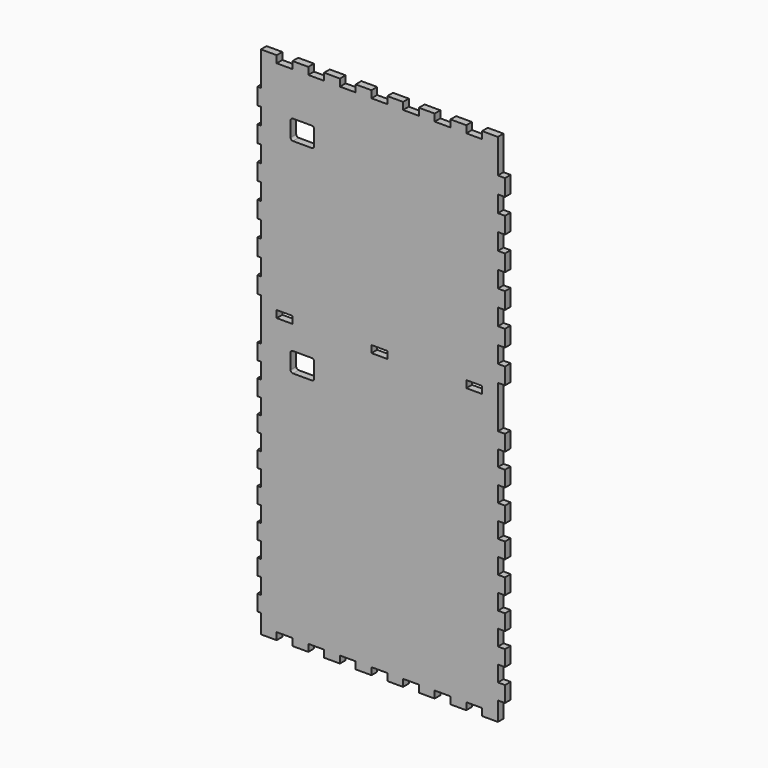
from build123d import *

# Parameters (mm, degrees)
F0_W     = 40
F0_H     = 18
F1_DEPTH = 18


with BuildPart() as f1:
    # F0 (on Front) → F1 (new body)
    with BuildSketch(Plane.XZ):
        Polygon((1349.999516, 1218), (1331.999516, 1218), (1331.999516, 1304), (1291.999516, 1304), (1291.999516, 1286), (1251.999516, 1286), (1251.999516, 1304), (1211.999516, 1304), (1211.999516, 1286), (1171.999516, 1286), (1171.999516, 1304), (1131.999516, 1304), (1131.999516, 1286), (1091.999516, 1286), (1091.999516, 1304), (1051.999516, 1304), (1051.999516, 1286), (1011.999516, 1286), (1011.999516, 1304), (971.999516, 1304), (971.999516, 1286), (931.999516, 1286), (931.999516, 1304), (891.999516, 1304), (891.999516, 1286), (851.999516, 1286), (851.999516, 1304), (811.999516, 1304), (811.999516, 1286), (771.999516, 1286), (771.999516, 1304), (731.999516, 1304), (731.999516, 1218), (722.999516, 1218), (722.999516, 1176), (731.999516, 1176), (731.999516, 1134), (722.999516, 1134), (722.999516, 1092), (731.999516, 1092), (731.999516, 1050), (722.999516, 1050), (722.999516, 1008), (731.999516, 1008), (731.999516, 966), (722.999516, 966), (722.999516, 924), (731.999516, 924), (731.999516, 882), (722.999516, 882), (722.999516, 840), (731.999516, 840), (731.999516, 798), (722.999516, 798), (722.999516, 756), (731.999516, 756), (731.999516, 648), (722.999516, 648), (722.999516, 608), (731.999516, 608), (731.999516, 568), (722.999516, 568), (722.999516, 528), (731.999516, 528), (731.999516, 488), (722.999516, 488), (722.999516, 448), (731.999516, 448), (731.999516, 408), (722.999516, 408), (722.999516, 368), (731.999516, 368), (731.999516, 328), (722.999516, 328), (722.999516, 288), (731.999516, 288), (731.999516, 248), (722.999516, 248), (722.999516, 208), (731.999516, 208), (731.999516, 168), (722.999516, 168), (722.999516, 128), (731.999516, 128), (731.999516, 88), (722.999516, 88), (722.999516, 48), (731.999516, 48), (731.999516, 0), (771.999516, 0), (771.999516, 18), (811.999516, 18), (811.999516, 0), (851.999516, 0), (851.999516, 18), (891.999516, 18), (891.999516, 0), (931.999516, 0), (931.999516, 18), (971.999516, 18), (971.999516, 0), (1011.999516, 0), (1011.999516, 18), (1051.999516, 18), (1051.999516, 0), (1091.999516, 0), (1091.999516, 18), (1131.999516, 18), (1131.999516, 0), (1171.999516, 0), (1171.999516, 18), (1211.999516, 18), (1211.999516, 0), (1251.999516, 0), (1251.999516, 18), (1291.999516, 18), (1291.999516, 0), (1331.999516, 0), (1331.999516, 48), (1349.999516, 48), (1349.999516, 88), (1331.999516, 88), (1331.999516, 128), (1349.999516, 128), (1349.999516, 168), (1331.999516, 168), (1331.999516, 208), (1349.999516, 208), (1349.999516, 248), (1331.999516, 248), (1331.999516, 288), (1349.999516, 288), (1349.999516, 328), (1331.999516, 328), (1331.999516, 368), (1349.999516, 368), (1349.999516, 408), (1331.999516, 408), (1331.999516, 448), (1349.999516, 448), (1349.999516, 488), (1331.999516, 488), (1331.999516, 528), (1349.999516, 528), (1349.999516, 568), (1331.999516, 568), (1331.999516, 608), (1349.999516, 608), (1349.999516, 648), (1331.999516, 648), (1331.999516, 756), (1349.999516, 756), (1349.999516, 798), (1331.999516, 798), (1331.999516, 840), (1349.999516, 840), (1349.999516, 882), (1331.999516, 882), (1331.999516, 924), (1349.999516, 924), (1349.999516, 966), (1331.999516, 966), (1331.999516, 1008), (1349.999516, 1008), (1349.999516, 1050), (1331.999516, 1050), (1331.999516, 1092), (1349.999516, 1092), (1349.999516, 1134), (1331.999516, 1134), (1331.999516, 1176), (1349.999516, 1176), align=None)
        with BuildLine():
            Line((806.999516, 614), (806.999516, 652))
            ThreePointArc((806.999516, 652), (808.756876, 656.242641), (812.999516, 658))
            Line((812.999516, 658), (860.999516, 658))
            ThreePointArc((860.999516, 658), (865.242157, 656.242641), (866.999516, 652))
            Line((866.999516, 652), (866.999516, 614))
            ThreePointArc((866.999516, 614), (865.242157, 609.757359), (860.999516, 608))
            Line((860.999516, 608), (812.999516, 608))
            ThreePointArc((812.999516, 608), (808.756876, 609.757359), (806.999516, 614))
        make_face(mode=Mode.SUBTRACT)
        with Locations((791.999516, 727)):
            Rectangle(F0_W, F0_H, mode=Mode.SUBTRACT)
        with Locations((1031.999516, 727)):
            Rectangle(F0_W, F0_H, mode=Mode.SUBTRACT)
        with BuildLine():
            ThreePointArc((860.999516, 1176), (865.242157, 1174.242641), (866.999516, 1170))
            Line((866.999516, 1170), (866.999516, 1132))
            ThreePointArc((866.999516, 1132), (865.242157, 1127.757359), (860.999516, 1126))
            Line((860.999516, 1126), (812.999516, 1126))
            ThreePointArc((812.999516, 1126), (808.756876, 1127.757359), (806.999516, 1132))
            Line((806.999516, 1132), (806.999516, 1170))
            ThreePointArc((806.999516, 1170), (808.756876, 1174.242641), (812.999516, 1176))
            Line((812.999516, 1176), (860.999516, 1176))
        make_face(mode=Mode.SUBTRACT)
        with Locations((1271.999516, 727)):
            Rectangle(F0_W, F0_H, mode=Mode.SUBTRACT)
    extrude(amount=F1_DEPTH)


solid = f1.part
